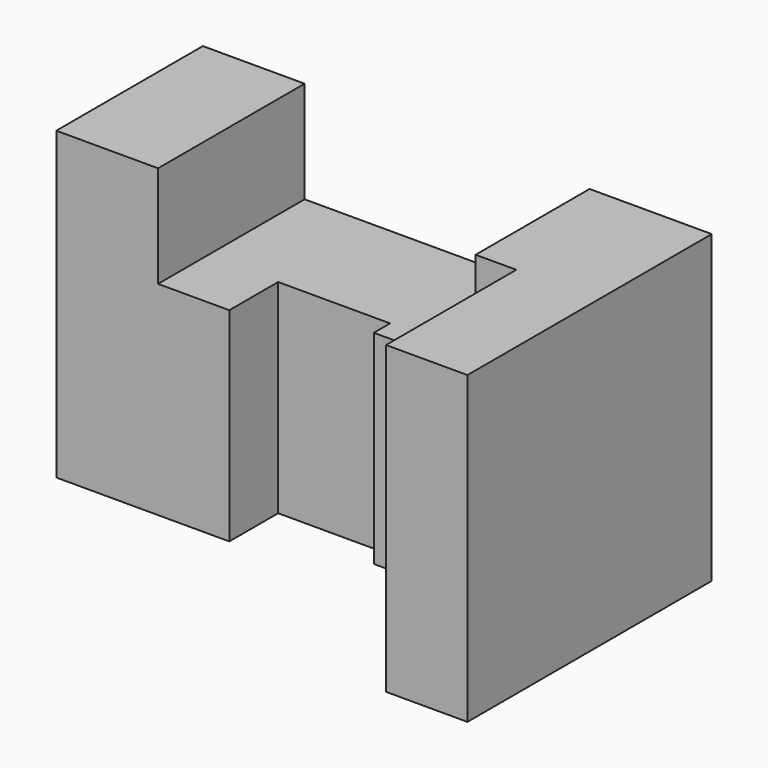
from build123d import *

# Parameters (mm, degrees)
F0_W     = 125
F0_H     = 75
F1_DEPTH = 37.5
F2_W     = 105
F2_H     = 30
F3_DEPTH = 75
F5_START = 50
F4_W     = 70
F4_H     = 45
F5_DEPTH = 32.67132
F6_W     = 27.5
F6_H     = 15
F7_DEPTH = 50
F8_W     = 35
F8_H     = 10
F9_DEPTH = 79.66762


with BuildPart() as f1:
    # F0 (on Front) → F1 (new body, symmetric)
    with BuildSketch(Plane.XZ):
        with Locations((-0.445794413, 37.5)):
            Rectangle(F0_W, F0_H)
    extrude(amount=F1_DEPTH, both=True)

    # F2 (on Top) → F3 (cut, symmetric)
    with BuildSketch(Plane.XY):
        with Locations((-10.445794413, -22.5)):
            Rectangle(F2_W, F2_H)
    extrude(amount=F3_DEPTH, both=True, mode=Mode.SUBTRACT)

    # F4 (on Top) → F5 (cut)
    with BuildSketch(Plane.XY.offset(F5_START)):
        with Locations((-2.945794413, 15)):
            Rectangle(F4_W, F4_H)
    extrude(amount=F5_DEPTH, mode=Mode.SUBTRACT)

    # F6 (on Top) → F7 (cut, symmetric)
    with BuildSketch(Plane.XY):
        with Locations((-6.695794413, 0)):
            Rectangle(F6_W, F6_H)
    extrude(amount=F7_DEPTH, both=True, mode=Mode.SUBTRACT)

    # F8 (on Top) → F9 (cut)
    with BuildSketch(Plane.XY):
        with Locations((24.554205587, -2.5)):
            Rectangle(F8_W, F8_H)
    extrude(amount=F9_DEPTH, mode=Mode.SUBTRACT)


solid = f1.part
